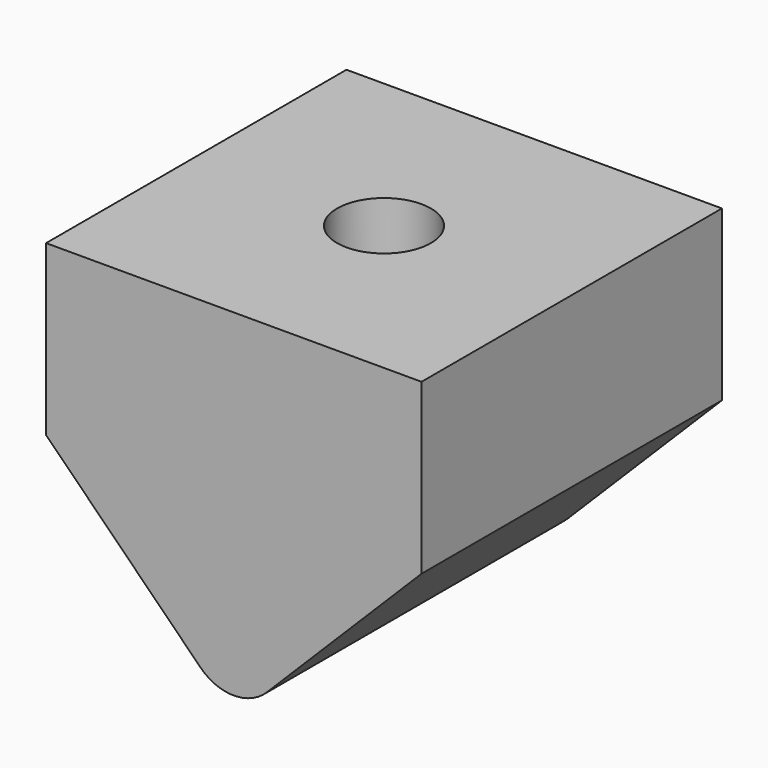
from build123d import *

# Parameters (mm, degrees)
F1_DEPTH = 20
F3_D     = 5
F3_DEPTH = 14
F3_TIP   = 1.5021515476


with BuildPart() as f1:
    # F0 (on Front) → F1 (new body)
    with BuildSketch(Plane.XZ):
        with BuildLine():
            Line((5.9797684476, 11.6401735377), (-14.0202315524, 11.6401735377))
            Line((-14.0202315524, 11.6401735377), (-14.0202315524, 2.6401735377))
            Line((-14.0202315524, 2.6401735377), (-5.7879985054, -5.5920595094))
            ThreePointArc((-5.7879985054, -5.5920595094), (-4.0202315524, -6.3242925564), (-2.2524645995, -5.5920595094))
            Line((-2.2524645995, -5.5920595094), (5.9797684476, 2.6401735377))
            Line((5.9797684476, 2.6401735377), (5.9797684476, 11.6401735377))
        make_face()
    extrude(amount=F1_DEPTH)

    # F3
    with Locations(Plane.XY.offset(11.6401735377)):
        with Locations((-4.0202315524, -10)):
            Hole(F3_D / 2, depth=F3_DEPTH)
            with Locations((0, 0, -(F3_DEPTH + F3_TIP / 2))):  # 118° drill point
                Cone(0, F3_D / 2, F3_TIP, mode=Mode.SUBTRACT)


solid = f1.part
